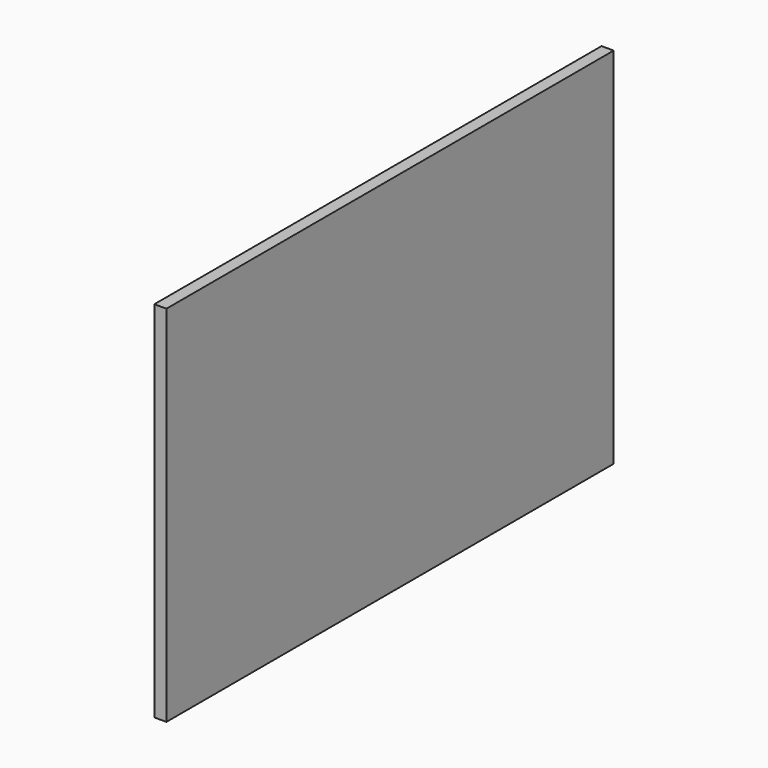
from build123d import *

# Parameters (mm, degrees)
PAD_DEPTH = 10


with BuildPart() as part:
    # Sketch → Pad (new body)
    with BuildSketch(Plane.YZ):
        Polygon((0, 0), (0, 300), (461, 300), (461, 0), (230.5, 0), align=None)
    extrude(amount=-PAD_DEPTH)


solid = part.part
